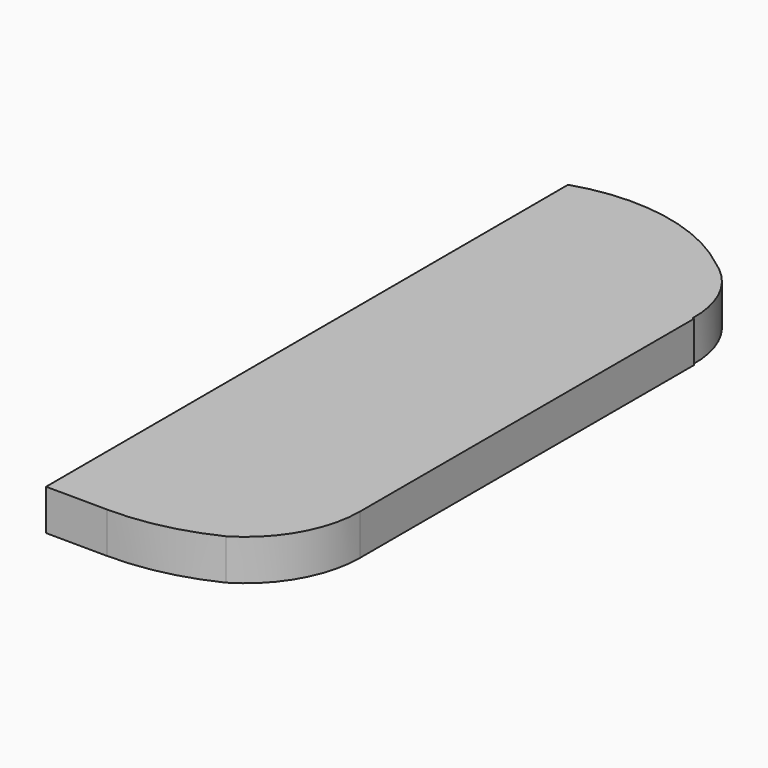
from build123d import *

# Parameters (mm, degrees)
F1_DEPTH = 6.35


with BuildPart() as f1:
    # F0 (on Top) → F1 (new body)
    with BuildSketch(Plane.XY):
        with BuildLine():
            ThreePointArc((93.951032, 39.695125), (92.257404, 47.066268), (87.174452, 52.666779))
            ThreePointArc((87.174452, 52.666779), (74.33191, 58.54881), (60.236908, 57.621417))
            Line((60.236908, 57.621417), (60.34755, -43.978523))
            Line((60.34755, -43.978523), (69.912671, -44.046386))
            ThreePointArc((69.912671, -44.046386), (77.941697, -43.180374), (85.564317, -40.513749))
            ThreePointArc((85.564317, -40.513749), (91.886863, -33.999443), (94.192744, -25.219142))
            Line((94.192744, -25.219142), (94.192744, 39.700861))
            Line((94.192744, 39.700861), (93.951032, 39.695125))
        make_face()
    extrude(amount=F1_DEPTH)


solid = f1.part
